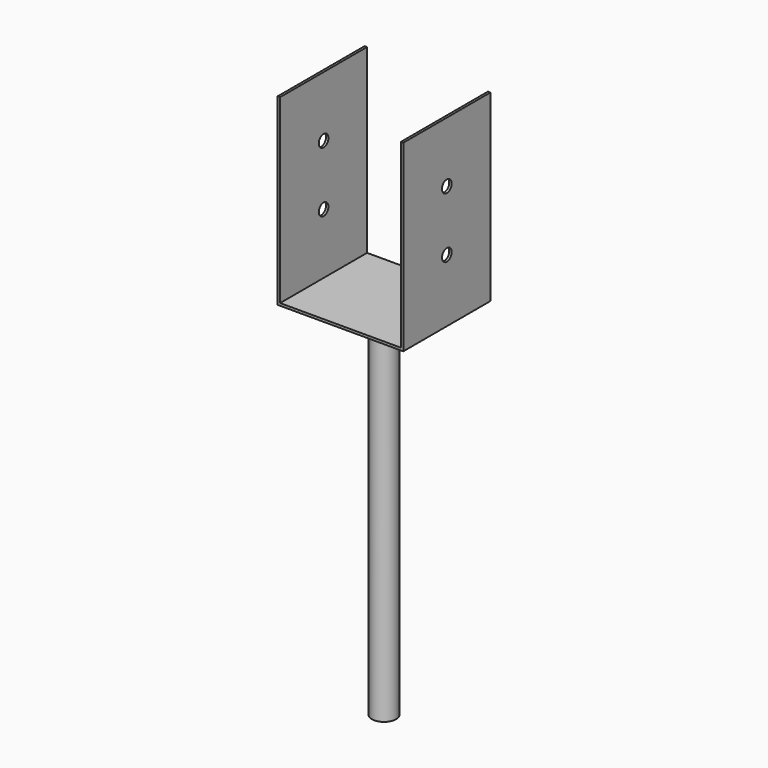
from build123d import *

# Parameters (mm, degrees)
F1_DEPTH = 90
F2_R     = 10
F3_DEPTH = 300
F4_R     = 5
F5_DEPTH = 104.001


with BuildPart() as f1:
    # F0 (on Front) → F1 (new body)
    with BuildSketch(Plane.XZ):
        Polygon((50, 0), (0, 0), (-50, 0), (-50, 150), (-52, 150), (-52, -2), (52, -2), (52, 150), (50, 150), align=None)
    extrude(amount=F1_DEPTH)

    # F2 (on face) → F3 (join)
    with BuildSketch(Plane(origin=(0, 0, -2), x_dir=(1, 0, 0), z_dir=(0, 0, -1))):
        with Locations((0, 45)):
            Circle(F2_R)
    extrude(amount=F3_DEPTH)

    # F4 (on face) → F5 (cut, through all)
    with BuildSketch(Plane(origin=(-52, 0, 0), x_dir=(0, -1, 0), z_dir=(-1, 0, 0))):
        with Locations((45, 100)):
            Circle(F4_R)
        with Locations((45, 50)):
            Circle(F4_R)
    extrude(amount=-F5_DEPTH, mode=Mode.SUBTRACT)


solid = f1.part
